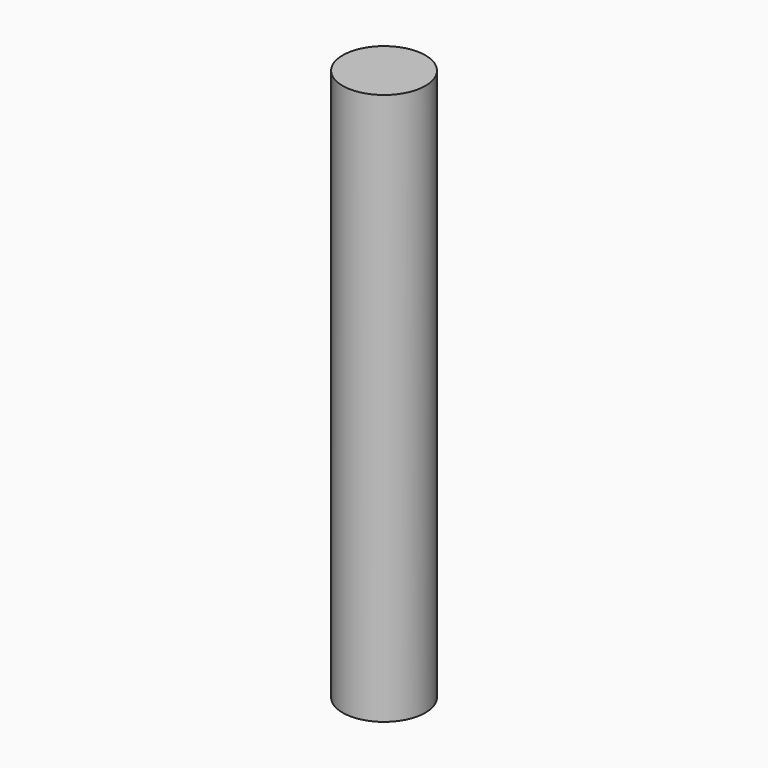
from build123d import *

# Parameters (mm, degrees)
F0_R          = 3
F1_DEPTH      = 28
F1_DEPTH_BACK = 12
F2_R          = 2.5
F3_DEPTH      = 11
F3_DEPTH_BACK = 12


with BuildPart() as f1:
    # F0 (on Top) → F1 (new body, two sides)
    with BuildSketch(Plane.XY) as f1_sk:
        Circle(F0_R)
    extrude(amount=F1_DEPTH)
    extrude(f1_sk.sketch, amount=-F1_DEPTH_BACK)

    # F2 (on Top) → F3 (cut, two sides)
    with BuildSketch(Plane.XY) as f3_sk:
        Circle(F2_R)
    extrude(amount=-F3_DEPTH, mode=Mode.SUBTRACT)
    extrude(f3_sk.sketch, amount=F3_DEPTH_BACK, mode=Mode.SUBTRACT)


solid = f1.part
